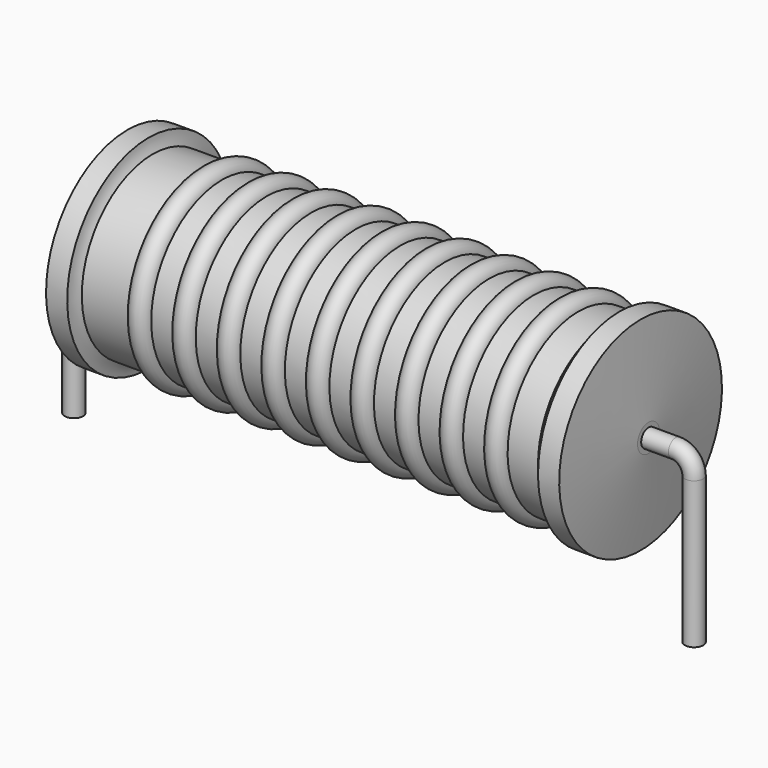
from build123d import *

# Parameters (mm, degrees)
SKETCH_R = 0.45


with BuildPart() as sweep_body:
    # Sweep: sweep along a path in Sketch001
    with BuildLine(Plane.XZ) as sweep_path:
        Line((0, -3), (0, 4.2))
        ThreePointArc((0, 4.2), (0.2636, 4.836392), (0.899989, 5.1))
        Line((0.899989, 5.1), (29.58, 5.1))
        ThreePointArc((29.58, 5.1), (30.216396, 4.836396), (30.48, 4.2))
        Line((30.48, 4.2), (30.48, -3))
    # Sketch → Sweep (sweep)
    with BuildSketch(Plane.XY.offset(-2)):
        Circle(SKETCH_R)
    sweep(path=sweep_path.line)


with BuildPart() as revolution:
    # Sketch002 → Revolution (revolve)
    with BuildSketch(Plane.XZ):
        with BuildLine():
            Line((2.63, 10.1), (3.67, 10.1))
            ThreePointArc((3.67, 10.1), (3.731746, 9.763652), (3.868, 9.45))
            Line((3.868, 9.45), (26.29, 9.45))
            ThreePointArc((26.29, 9.45), (26.583495, 9.748204), (26.81, 10.1))
            Line((26.81, 10.1), (27.85, 10.1))
            ThreePointArc((28.24, 5.775), (28.054646, 7.93837), (27.85, 10.1))
            Line((28.24, 5.1), (28.24, 5.775))
            Line((2.24, 5.1), (28.24, 5.1))
            Line((2.24, 5.1), (2.24, 5.775))
            ThreePointArc((2.63, 10.1), (2.425354, 7.93837), (2.24, 5.775))
        make_face()
    revolve(axis=Axis((2.24, 0, 5.1), (1, 0, 0)))


with BuildPart() as obj1:
    # Sketch003 → Revolution001 (revolve)
    with BuildSketch(Plane.XZ):
        with BuildLine():
            ThreePointArc((7.289474, 9.346), (6.742105, 9.893368), (6.194737, 9.346))
            Line((5.1, 9.346), (6.194737, 9.346))
            Line((5.1, 9.346), (5.1, 8.346))
            Line((5.1, 8.346), (25.9, 8.346))
            Line((25.9, 8.346), (25.9, 9.346))
            Line((24.805263, 9.346), (25.9, 9.346))
            ThreePointArc((24.805263, 9.346), (24.257895, 9.893368), (23.710526, 9.346))
            Line((22.615789, 9.346), (23.710526, 9.346))
            ThreePointArc((22.615789, 9.346), (22.068421, 9.893368), (21.521053, 9.346))
            Line((20.426316, 9.346), (21.521053, 9.346))
            ThreePointArc((20.426316, 9.346), (19.878947, 9.893368), (19.331579, 9.346))
            Line((18.236842, 9.346), (19.331579, 9.346))
            ThreePointArc((18.236842, 9.346), (17.689474, 9.893368), (17.142105, 9.346))
            Line((16.047368, 9.346), (17.142105, 9.346))
            ThreePointArc((16.047368, 9.346), (15.5, 9.893368), (14.952632, 9.346))
            Line((13.857895, 9.346), (14.952632, 9.346))
            ThreePointArc((13.857895, 9.346), (13.310526, 9.893368), (12.763158, 9.346))
            Line((11.668421, 9.346), (12.763158, 9.346))
            ThreePointArc((11.668421, 9.346), (11.121053, 9.893368), (10.573684, 9.346))
            Line((9.478947, 9.346), (10.573684, 9.346))
            ThreePointArc((9.478947, 9.346), (8.931579, 9.893368), (8.384211, 9.346))
            Line((7.289474, 9.346), (8.384211, 9.346))
        make_face()
    revolve(axis=Axis((2.89, 0, 5.1), (1, 0, 0)))

    # obj1: union Sweep body, Revolution
    add(sweep_body.part)
    add(revolution.part)


solid = obj1.part
